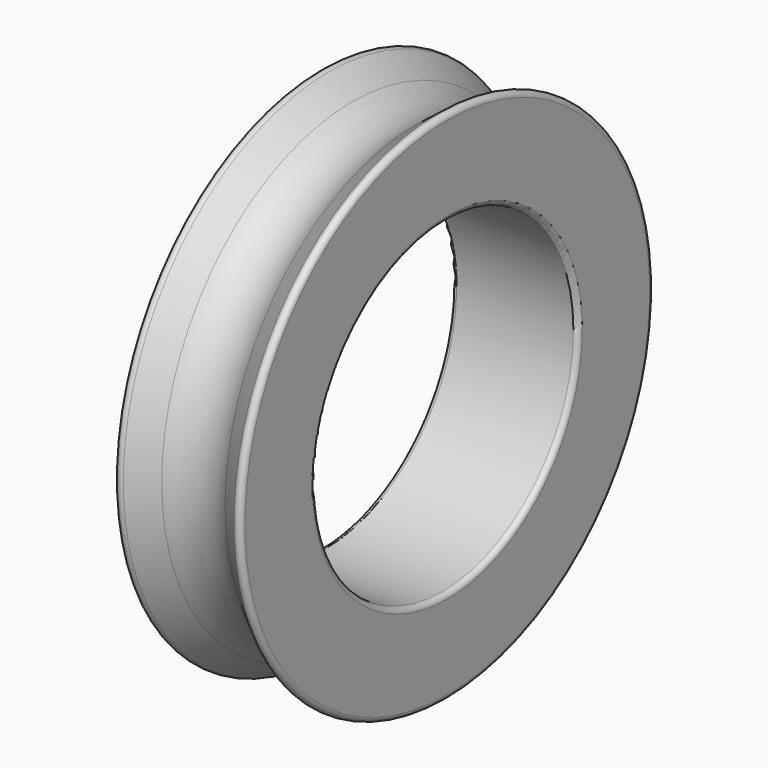
from build123d import *


with BuildPart() as f1:
    # F0 (on Front) → F1 (revolve)
    with BuildSketch(Plane.XZ):
        with BuildLine():
            ThreePointArc((-2.55, 6.8), (-2.491421, 6.658579), (-2.35, 6.6))
            Line((-2.35, 6.6), (2.35, 6.6))
            ThreePointArc((2.35, 6.6), (2.491421, 6.658579), (2.55, 6.8))
            Line((2.55, 6.8), (2.55, 10.18896))
            ThreePointArc((2.55, 10.18896), (2.437505, 10.368801), (2.226572, 10.346331))
            Line((2.226572, 10.346331), (1.275, 9.6))
            ThreePointArc((1.275, 9.6), (0, 9.159643), (-1.275, 9.6))
            Line((-1.275, 9.6), (-2.226572, 10.346331))
            ThreePointArc((-2.226572, 10.346331), (-2.437505, 10.368801), (-2.55, 10.18896))
            Line((-2.55, 10.18896), (-2.55, 6.8))
        make_face()
    revolve(axis=Axis((0, 0, 0), (1, 0, 0)))


solid = f1.part
